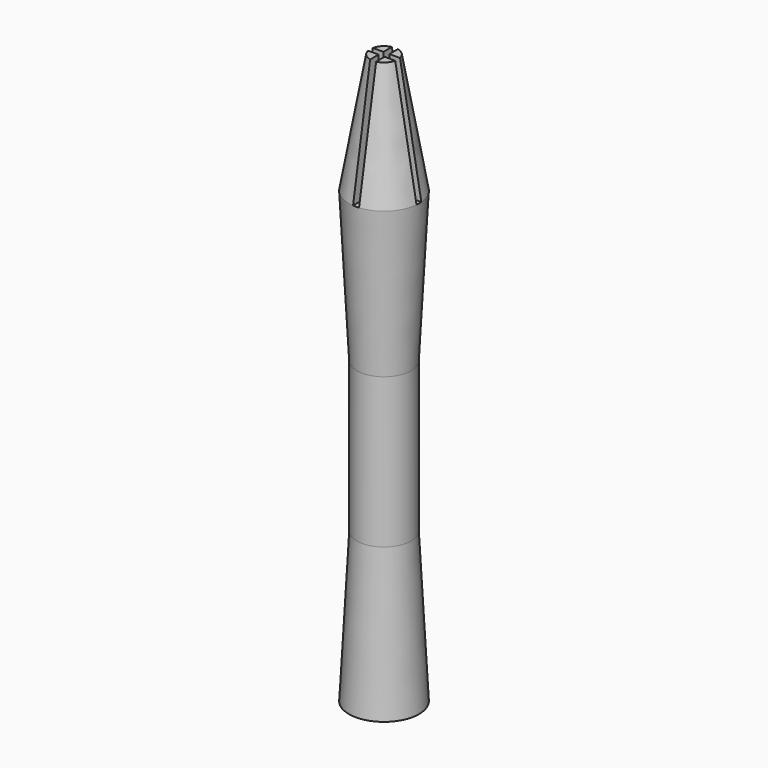
from build123d import *

# Parameters (mm, degrees)
F0_R      = 5.85
F1_DEPTH  = 25
F1_TAPER  = 3
F2_DEPTH  = 25
F2_FACE_R = 4.5398055179
F3_DEPTH  = 25
F3_TAPER  = -3
F3_FACE_R = 5.85
F4_DEPTH  = 20
F4_TAPER  = 10
F5_W      = 1
F5_H      = 1
F6_DEPTH  = 20


with BuildPart() as f1:
    # F0 (on Top) → F1 (new body)
    with BuildSketch(Plane.XY):
        Circle(F0_R)
    extrude(amount=F1_DEPTH, taper=F1_TAPER)

    # F2 (add): a face of the model
    f2_faces = [f1.faces().sort_by_distance(p)[0] for p in [
        (0, 0, 25),
    ]]
    extrude(f2_faces, amount=F2_DEPTH)

    # F2_face (on face) → F3 (join)
    with BuildSketch(Plane.XY.offset(50)):
        Circle(F2_FACE_R)
    extrude(amount=F3_DEPTH, taper=F3_TAPER)

    # F3_face (on face) → F4 (join)
    with BuildSketch(Plane.XY.offset(75)):
        Circle(F3_FACE_R)
    extrude(amount=F4_DEPTH, taper=F4_TAPER)

    # F5 (on face) → F6 (cut)
    with BuildSketch(Plane.XY.offset(95)):
        with BuildLine():
            Line((-0.5, 2.2690236148), (-0.5, 0.5))
            Line((-0.5, 0.5), (0.5, 0.5))
            Line((0.5, 0.5), (0.5, 2.2690236148))
            ThreePointArc((0.5, 2.2690236148), (0, 2.3234603858), (-0.5, 2.2690236148))
        make_face()
        with BuildLine():
            ThreePointArc((-2.2690236148, 0.5), (-2.3234603858, 0), (-2.2690236148, -0.5))
            Line((-2.2690236148, -0.5), (-0.5, -0.5))
            Line((-0.5, -0.5), (-0.5, 0.5))
            Line((-0.5, 0.5), (-2.2690236148, 0.5))
        make_face()
        with BuildLine():
            Line((0.5, -0.5), (-0.5, -0.5))
            Line((-0.5, -0.5), (-0.5, -2.2690236148))
            ThreePointArc((-0.5, -2.2690236148), (0, -2.3234603858), (0.5, -2.2690236148))
            Line((0.5, -2.2690236148), (0.5, -0.5))
        make_face()
        with BuildLine():
            Line((0.5, 0.5), (0.5, -0.5))
            Line((0.5, -0.5), (2.2690236148, -0.5))
            ThreePointArc((2.2690236148, -0.5), (2.3098111014, -0.2514773161), (2.3234603858, 0))
            ThreePointArc((2.3234603858, 0), (2.3098111014, 0.2514773161), (2.2690236148, 0.5))
            Line((2.2690236148, 0.5), (0.5, 0.5))
        make_face()
        Rectangle(F5_W, F5_H)
        with BuildLine():
            Line((-10.1169492777, 0.5), (-10.1169492777, -0.5))
            Line((-10.1169492777, -0.5), (-2.2690236148, -0.5))
            ThreePointArc((-2.2690236148, -0.5), (-2.3234603858, 0), (-2.2690236148, 0.5))
            Line((-2.2690236148, 0.5), (-10.1169492777, 0.5))
        make_face()
        with BuildLine():
            ThreePointArc((0.5, -2.2690236148), (0, -2.3234603858), (-0.5, -2.2690236148))
            Line((-0.5, -2.2690236148), (-0.5, -11.6822896525))
            Line((-0.5, -11.6822896525), (0.5, -11.6822896525))
            Line((0.5, -11.6822896525), (0.5, -2.2690236148))
        make_face()
        with BuildLine():
            ThreePointArc((2.3234603858, 0), (2.3098111014, -0.2514773161), (2.2690236148, -0.5))
            Line((2.2690236148, -0.5), (10.1169492777, -0.5))
            Line((10.1169492777, -0.5), (10.1169492777, 0.5))
            Line((10.1169492777, 0.5), (2.2690236148, 0.5))
            ThreePointArc((2.2690236148, 0.5), (2.3098111014, 0.2514773161), (2.3234603858, 0))
        make_face()
        with BuildLine():
            Line((-0.5, 11.6822896525), (-0.5, 2.2690236148))
            ThreePointArc((-0.5, 2.2690236148), (0, 2.3234603858), (0.5, 2.2690236148))
            Line((0.5, 2.2690236148), (0.5, 11.6822896525))
            Line((0.5, 11.6822896525), (-0.5, 11.6822896525))
        make_face()
    extrude(amount=-F6_DEPTH, mode=Mode.SUBTRACT)


solid = f1.part
